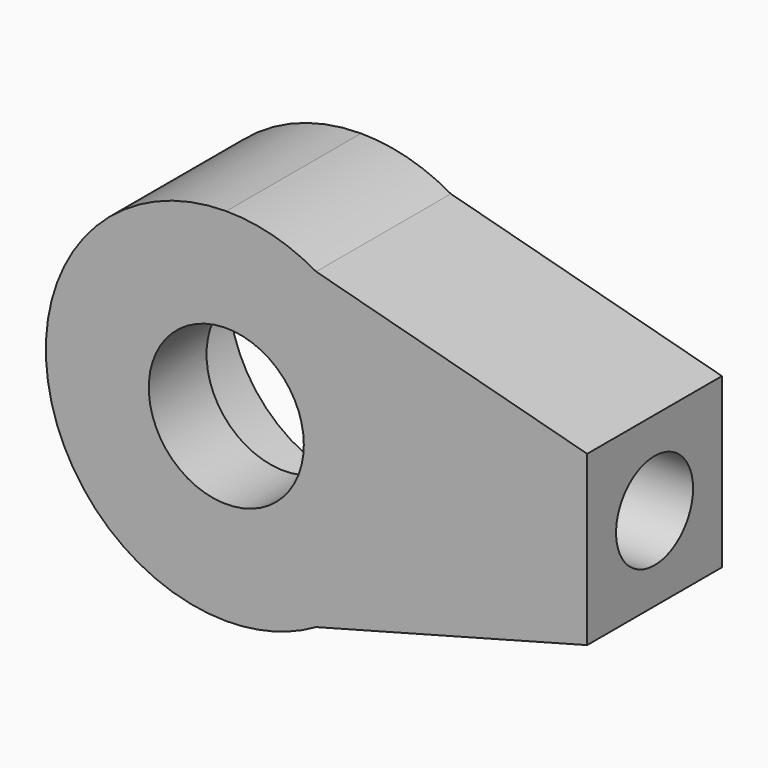
from build123d import *

# Parameters (mm, degrees)
F0_R     = 11
F1_DEPTH = 14
F2_R     = 4
F3_DEPTH = 10
F4_R     = 11.274744
F4_R_2   = 6.443865
F5_DEPTH = 6


with BuildPart() as f1:
    # F0 (on Front) → F1 (new body)
    with BuildSketch(Plane.XZ):
        with BuildLine():
            Line((7.46888, 13.008299), (0, 15))
            ThreePointArc((0, 15), (-15, 0), (0, -15))
            Line((0, -15), (7.46888, -13.008299))
            ThreePointArc((7.46888, -13.008299), (12.981394, -7.515544), (15, 0))
            ThreePointArc((15, 0), (12.981394, 7.515544), (7.46888, 13.008299))
        make_face()
        Circle(F0_R, mode=Mode.SUBTRACT)
        with BuildLine():
            ThreePointArc((7.46888, 13.008299), (3.86494, 14.493524), (0, 15))
            Line((0, 15), (7.46888, 13.008299))
        make_face()
        with BuildLine():
            Line((7.46888, -13.008299), (0, -15))
            ThreePointArc((0, -15), (3.86494, -14.493524), (7.46888, -13.008299))
        make_face()
        with BuildLine():
            Line((30, 7), (7.46888, 13.008299))
            ThreePointArc((7.46888, 13.008299), (12.981394, 7.515544), (15, 0))
            ThreePointArc((15, 0), (12.981394, -7.515544), (7.46888, -13.008299))
            Line((7.46888, -13.008299), (30, -7))
            Line((30, -7), (30, 0))
            Line((30, 0), (30, 7))
        make_face()
    extrude(amount=F1_DEPTH)

    # F2 (on face) → F3 (cut)
    with BuildSketch(Plane.YZ.offset(30)):
        with Locations((-7, 0)):
            Circle(F2_R)
    extrude(amount=-F3_DEPTH, mode=Mode.SUBTRACT)

    # F4 (on face) → F5 (join)
    with BuildSketch(Plane.XZ.offset(14)):
        Circle(F4_R)
        Circle(F4_R_2, mode=Mode.SUBTRACT)
    extrude(amount=-F5_DEPTH)


solid = f1.part
